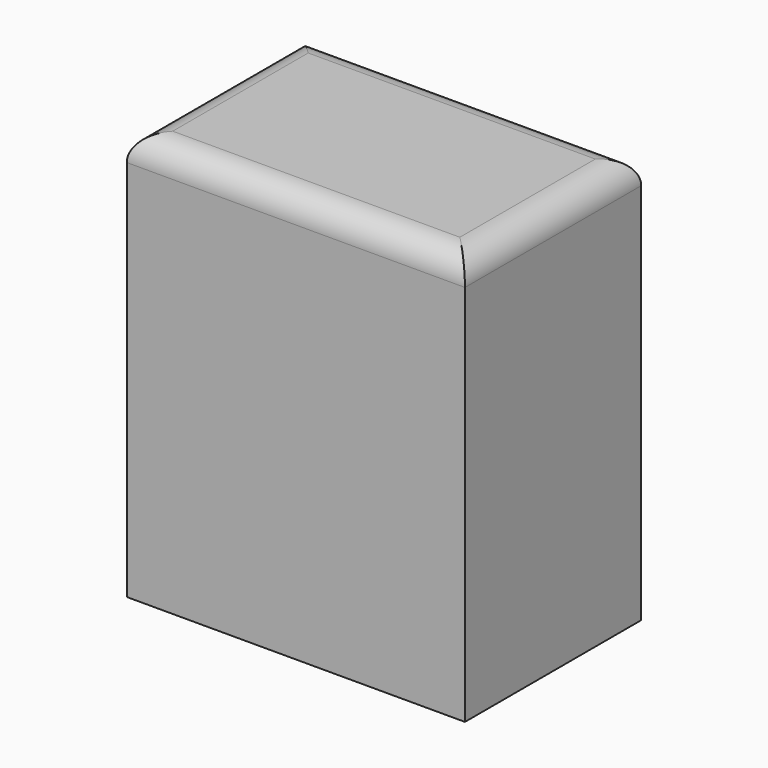
from build123d import *

# Parameters (mm, degrees)
F0_W     = 66.300001
F0_H     = 43.200001
F1_DEPTH = 40
F2_R     = 5


with BuildPart() as f1:
    # F0 (on Top) → F1 (new body, symmetric)
    with BuildSketch(Plane.XY):
        with Locations((0.449998, 0.149999)):
            Rectangle(F0_W, F0_H)
    extrude(amount=F1_DEPTH, both=True)

    # F2
    f2_edges = [f1.edges().sort_by_distance(p)[0] for p in [
        (0.449998, 21.749999, 40),
        (-32.700002, 0.149999, 40),
        (0.449998, -21.450002, 40),
        (33.599999, 0.149999, 40),
    ]]
    fillet(f2_edges, radius=F2_R)


solid = f1.part
